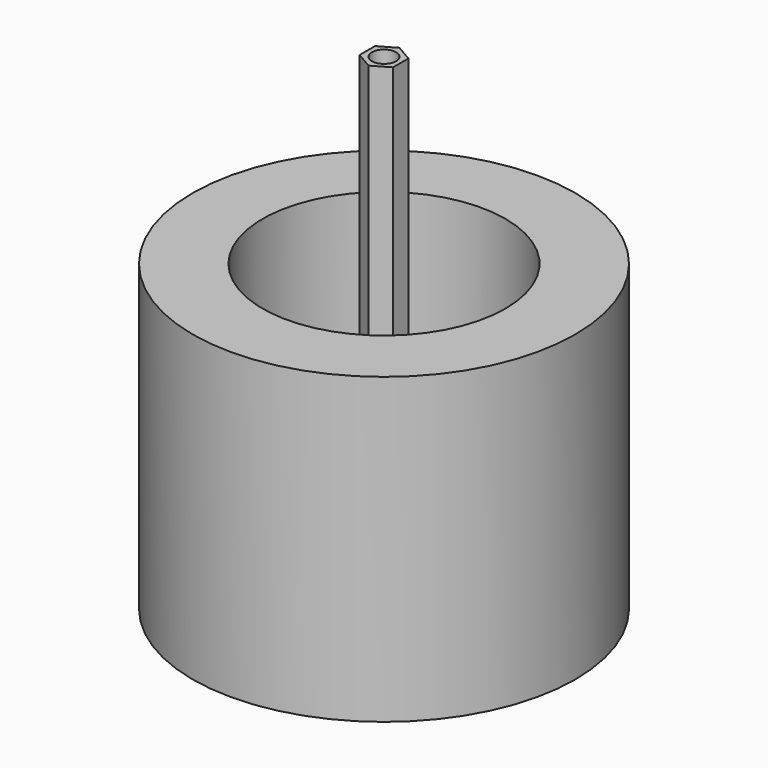
from build123d import *

# Parameters (mm, degrees)
F0_R      = 31.5
F0_R_2    = 20
F1_DEPTH  = 50
F3_DEPTH  = 80
F4_R      = 9
F5_DEPTH  = 3.5
F6_R      = 2
F7_DEPTH  = 10
F8_R      = 9
F9_DEPTH  = 3.5
F10_R     = 1.65
F11_DEPTH = 9


with BuildPart() as f1:
    # F0 (on Top) → F1 (new body)
    with BuildSketch(Plane.XY):
        Circle(F0_R)
        Circle(F0_R_2, mode=Mode.SUBTRACT)
    extrude(amount=F1_DEPTH)


with BuildPart() as f3:
    # F2 (on Top) → F3 (new body)
    with BuildSketch(Plane.XY):
        Polygon((2.75, -1.587713), (2.75, 1.587713), (0, 3.175426), (-2.75, 1.587713), (-2.75, -1.587713), (0, -3.175426), align=None)
    extrude(amount=F3_DEPTH)

    # F4 (on face) → F5 (join)
    with BuildSketch(Plane(origin=(0, 0, 0), x_dir=(1, 0, 0), z_dir=(0, 0, -1))):
        Circle(F4_R)
    extrude(amount=F5_DEPTH)

    # F6 (on face) → F7 (cut)
    with BuildSketch(Plane.XY.offset(80)):
        Circle(F6_R)
    extrude(amount=-F7_DEPTH, mode=Mode.SUBTRACT)


with BuildPart() as f9:
    # F8 (on Top) → F9 (new body)
    with BuildSketch(Plane.XY):
        with Locations((-51.016185, 34.499858)):
            Circle(F8_R)
    extrude(amount=F9_DEPTH)

    # F10 (on face) → F11 (join)
    with BuildSketch(Plane.XY.offset(3.5)):
        with Locations((-51.016185, 34.499858)):
            Circle(F10_R)
    extrude(amount=F11_DEPTH)


solid = Compound([f1.part, f3.part, f9.part])
